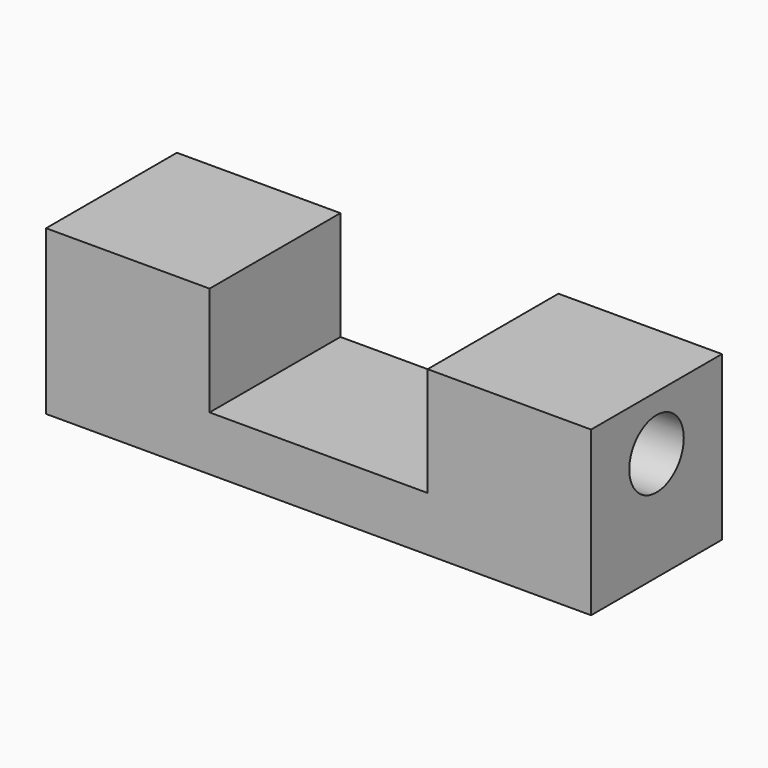
from build123d import *

# Parameters (mm, degrees)
F1_DEPTH = 60
F2_R     = 12.5
F3_DEPTH = 82.6


with BuildPart() as f1:
    # F0 (on Front) → F1 (new body)
    with BuildSketch(Plane.XZ):
        Polygon((0, 60), (0, 0), (200, 0), (200, 60), (140, 60), (140, 20), (60, 20), (60, 60), align=None)
    extrude(amount=F1_DEPTH)

    # F2 (on face) → F3 (cut)
    with BuildSketch(Plane.YZ.offset(200)):
        with Locations((-30, 40)):
            Circle(F2_R)
    extrude(amount=-F3_DEPTH, mode=Mode.SUBTRACT)


solid = f1.part
